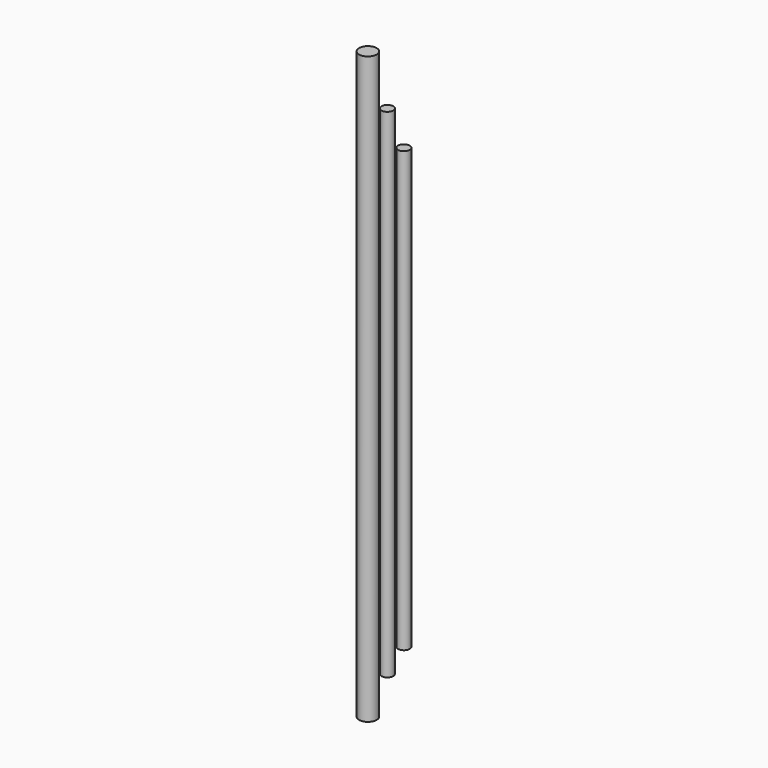
from build123d import *

# Parameters (mm, degrees)
F0_R     = 6
F1_DEPTH = 200
F0_R_2   = 4
F2_DEPTH = 170
F3_DEPTH = 150


with BuildPart() as f1:
    # F0 (on Top) → F1 (new body, symmetric)
    with BuildSketch(Plane.XY):
        with Locations((-13.3037072906, 0)):
            Circle(F0_R)
    extrude(amount=F1_DEPTH, both=True)


with BuildPart() as f2:
    # F0 (on Top) → F2 (new body, symmetric)
    with BuildSketch(Plane.XY):
        Circle(F0_R_2)
    extrude(amount=F2_DEPTH, both=True)


with BuildPart() as f3:
    # F0 (on Top) → F3 (new body, symmetric)
    with BuildSketch(Plane.XY):
        with Locations((11.2270306294, 0)):
            Circle(F0_R_2)
    extrude(amount=F3_DEPTH, both=True)


solid = Compound([f1.part, f2.part, f3.part])
